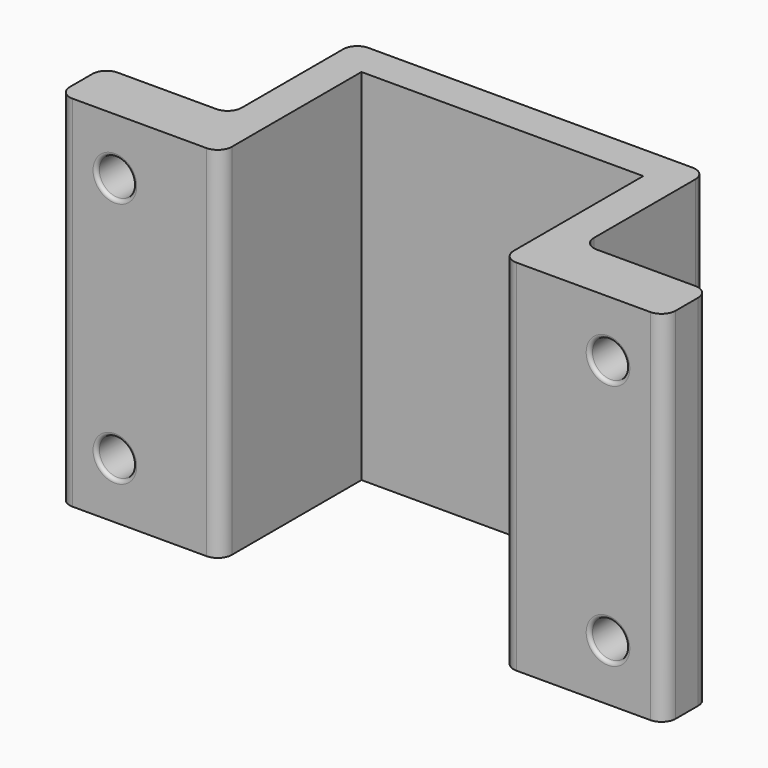
from build123d import *

# Parameters (mm, degrees)
F1_DEPTH = 51
F3_R     = 2
F2_R     = 2.6
F4_DEPTH = 8
F5_R     = 0.5


with BuildPart() as f1:
    # F0 (on Top) → F1 (new body)
    with BuildSketch(Plane.XY):
        Polygon((-43, 0), (-20, 0), (-20, 25), (0, 25), (20, 25), (20, 0), (43, 0), (43, 8), (25, 8), (25, 30), (0, 30), (-25, 30), (-25, 8), (-43, 8), align=None)
    extrude(amount=F1_DEPTH)

    # F3
    f3_edges = [f1.edges().sort_by_distance(p)[0] for p in [
        (-25, 8, 25.5),
        (25, 8, 25.5),
        (43, 8, 25.5),
        (43, 0, 25.5),
        (-43, 8, 25.5),
        (-43, 0, 25.5),
        (-20, 0, 25.5),
        (20, 0, 25.5),
        (-25, 30, 25.5),
        (25, 30, 25.5),
    ]]
    fillet(f3_edges, radius=F3_R)

    # F2 (on face) → F4 (cut, through all)
    with BuildSketch(Plane(origin=(0, 8, 0), x_dir=(-1, 0, 0), z_dir=(0, 1, 0))):
        with Locations((35, 8)):
            Circle(F2_R)
        with Locations((35, 43)):
            Circle(F2_R)
        with Locations((-35, 8)):
            Circle(F2_R)
        with Locations((-35, 43)):
            Circle(F2_R)
    extrude(amount=-F4_DEPTH, mode=Mode.SUBTRACT)

    # F5
    f5_edges = [f1.edges().sort_by_distance(p)[0] for p in [
        (-37.6, 4, 43),
        (-32.4, 8, 43),
        (-32.4, 0, 43),
        (-37.6, 4, 8),
        (-32.4, 8, 8),
        (-32.4, 0, 8),
        (32.4, 4, 8),
        (37.6, 8, 8),
        (37.6, 0, 8),
        (32.4, 4, 43),
        (37.6, 8, 43),
        (37.6, 0, 43),
    ]]
    fillet(f5_edges, radius=F5_R)


solid = f1.part
